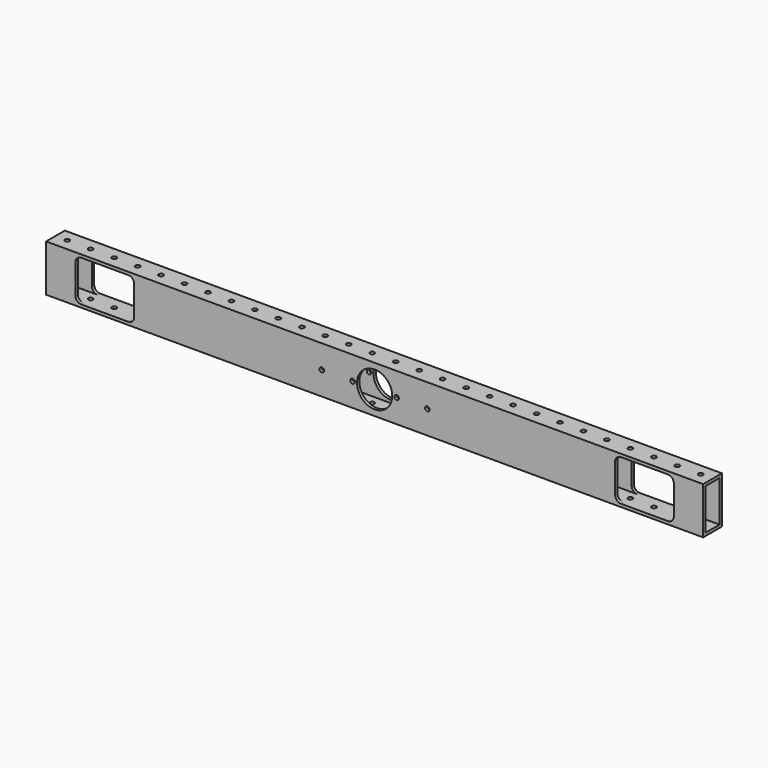
from build123d import *

# Parameters (mm, degrees)
F0_W     = 711.2
F0_H     = 25.4
F1_DEPTH = 25.4
F2_W     = 19.05
F2_H     = 44.45
F3_DEPTH = 711.201
F4_R     = 2.4892
F5_DEPTH = 50.801
F6_R     = 2.4892
F7_DEPTH = 25.401


with BuildPart() as f1:
    # F0 (on Top) → F1 (new body, symmetric)
    with BuildSketch(Plane.XY):
        Rectangle(F0_W, F0_H)
    extrude(amount=F1_DEPTH, both=True)

    # F2 (on face) → F3 (cut, through all)
    with BuildSketch(Plane.YZ.offset(355.6)):
        Rectangle(F2_W, F2_H)
    extrude(amount=-F3_DEPTH, mode=Mode.SUBTRACT)

    # F4 (on face) → F5 (cut, through all)
    with BuildSketch(Plane.XY.offset(25.4)):
        with Locations((-342.9, 0)):
            Circle(F4_R)
        with Locations((-317.5, 0)):
            Circle(F4_R)
        with Locations((-292.1, 0)):
            Circle(F4_R)
        with Locations((-266.7, 0)):
            Circle(F4_R)
        with Locations((-241.3, 0)):
            Circle(F4_R)
        with Locations((-215.9, 0)):
            Circle(F4_R)
        with Locations((-190.5, 0)):
            Circle(F4_R)
        with Locations((-165.1, 0)):
            Circle(F4_R)
        with Locations((-139.7, 0)):
            Circle(F4_R)
        with Locations((-114.3, 0)):
            Circle(F4_R)
        with Locations((-88.9, 0)):
            Circle(F4_R)
        with Locations((-63.5, 0)):
            Circle(F4_R)
        with Locations((-38.1, 0)):
            Circle(F4_R)
        with Locations((-12.7, 0)):
            Circle(F4_R)
        with Locations((12.7, 0)):
            Circle(F4_R)
        with Locations((38.1, 0)):
            Circle(F4_R)
        with Locations((63.5, 0)):
            Circle(F4_R)
        with Locations((88.9, 0)):
            Circle(F4_R)
        with Locations((114.3, 0)):
            Circle(F4_R)
        with Locations((139.7, 0)):
            Circle(F4_R)
        with Locations((165.1, 0)):
            Circle(F4_R)
        with Locations((190.5, 0)):
            Circle(F4_R)
        with Locations((215.9, 0)):
            Circle(F4_R)
        with Locations((241.3, 0)):
            Circle(F4_R)
        with Locations((266.7, 0)):
            Circle(F4_R)
        with Locations((292.1, 0)):
            Circle(F4_R)
        with Locations((317.5, 0)):
            Circle(F4_R)
        with Locations((342.9, 0)):
            Circle(F4_R)
        with Locations((368.3, 0)):
            Circle(F4_R)
        with Locations((393.7, 0)):
            Circle(F4_R)
    extrude(amount=-F5_DEPTH, mode=Mode.SUBTRACT)

    # F6 (on face) → F7 (cut, through all)
    with BuildSketch(Plane.XZ.offset(12.7)):
        with BuildLine():
            ThreePointArc((-323.85, -15.875), (-321.990128, -20.365128), (-317.5, -22.225))
            Line((-317.5, -22.225), (-266.7, -22.225))
            ThreePointArc((-266.7, -22.225), (-262.209872, -20.365128), (-260.35, -15.875))
            Line((-260.35, -15.875), (-260.35, 15.875))
            ThreePointArc((-260.35, 15.875), (-262.209872, 20.365128), (-266.7, 22.225))
            Line((-266.7, 22.225), (-317.5, 22.225))
            ThreePointArc((-317.5, 22.225), (-321.990128, 20.365128), (-323.85, 15.875))
            Line((-323.85, 15.875), (-323.85, -15.875))
        make_face()
        with BuildLine():
            Line((317.5, 22.225), (266.7, 22.225))
            ThreePointArc((266.7, 22.225), (262.209872, 20.365128), (260.35, 15.875))
            Line((260.35, 15.875), (260.35, -15.875))
            ThreePointArc((260.35, -15.875), (262.209872, -20.365128), (266.7, -22.225))
            Line((266.7, -22.225), (317.5, -22.225))
            ThreePointArc((317.5, -22.225), (321.990128, -20.365128), (323.85, -15.875))
            Line((323.85, -15.875), (323.85, 15.875))
            ThreePointArc((323.85, 15.875), (321.990128, 20.365128), (317.5, 22.225))
        make_face()
        with BuildLine():
            Line((-19.05, 0), (19.05, 0))
            ThreePointArc((19.05, 0), (0, 19.05), (-19.05, 0))
        make_face()
        with Locations((-23.8125, 0)):
            Circle(F6_R)
        with BuildLine():
            ThreePointArc((-19.05, 0), (0, -19.05), (19.05, 0))
            Line((19.05, 0), (-19.05, 0))
        make_face()
        with BuildLine():
            ThreePointArc((26.3017, 0), (23.8125, 2.4892), (21.3233, 0))
            ThreePointArc((21.3233, 0), (23.8125, -2.4892), (26.3017, 0))
        make_face()
        with Locations((-57.15, 0)):
            Circle(F6_R)
        with Locations((57.15, 0)):
            Circle(F6_R)
    extrude(amount=-F7_DEPTH, mode=Mode.SUBTRACT)


solid = f1.part
